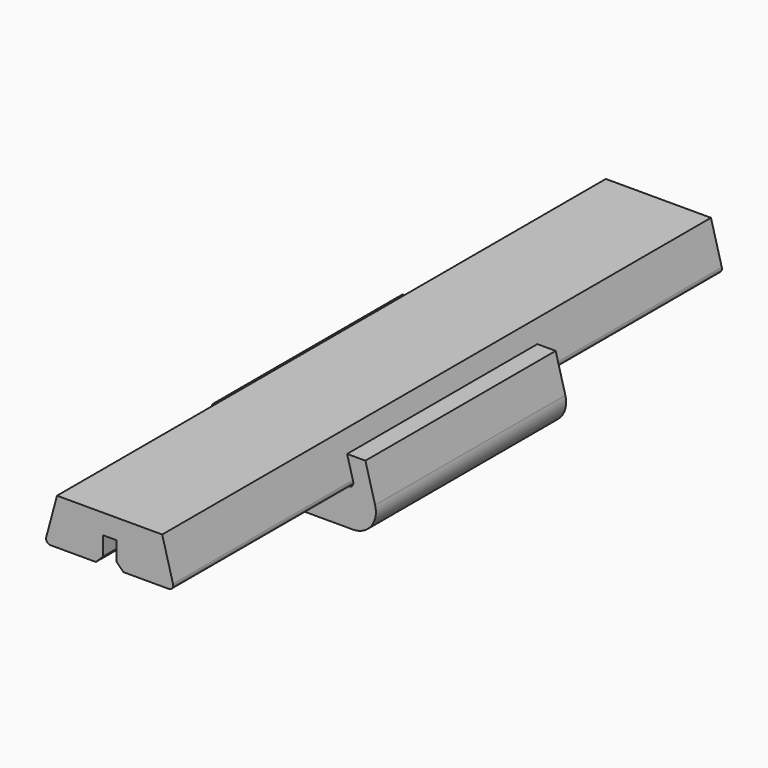
from build123d import *

# Parameters (mm, degrees)
F1_DEPTH  = 75
F2_DEPTH  = 26
F3_R      = 3.375
F3_R_2    = 1.65
F4_DEPTH  = 8.001
F5_DEPTH  = 6
F6_SIZE   = 1.5
F7_R      = 1
F7_2_R    = 1
F8_R      = 5
F9_R      = 3
F9_R_2    = 1.65
F10_DEPTH = 3
F11_DEPTH = 2.5


with BuildPart() as f1:
    # F0 (on Front) → F1 (new body, symmetric)
    with BuildSketch(Plane.XZ):
        Polygon((-1.5, 5.66), (0, 5.66), (1.5, 5.66), (1.5, 0), (14.2, 0), (11.5, 10), (0, 10), (-11.5, 10), (-14.2, 0), (-1.5, 0), align=None)
    extrude(amount=F1_DEPTH, both=True)

    # F6
    f6_edges = [f1.edges().sort_by_distance(p)[0] for p in [
        (-1.5, 0, 0),
        (1.5, 0, 0),
    ]]
    chamfer(f6_edges, length=F6_SIZE)

    # F7
    f7_edges = [f1.edges().sort_by_distance(p)[0] for p in [
        (14.2, 0, 0),
        (-14.2, 0, 0),
    ]]
    fillet(f7_edges, radius=F7_R)


with BuildPart() as f2:
    # F0 (on Front) → F2 (new body, symmetric)
    with BuildSketch(Plane.XZ):
        Polygon((-20.5558713294, -8.15), (0, -8.15), (20.5558713294, -8.15), (16.7353713294, 6), (12.7353713294, 6), (14.3958713294, -0.15), (2.0723198541, -0.15), (0, -0.15), (-2.0723198541, -0.15), (-14.3958713294, -0.15), (-12.7353713294, 6), (-16.7353713294, 6), align=None)
    extrude(amount=F2_DEPTH, both=True)

    # F3 (on face) → F4 (cut, through all)
    with BuildSketch(Plane.XY.offset(-0.15)):
        Circle(F3_R)
        with Locations((0, 20)):
            Circle(F3_R_2)
        with Locations((0, -20)):
            Circle(F3_R_2)
    extrude(amount=-F4_DEPTH, mode=Mode.SUBTRACT)

    # F3 (on face) → F5 (cut)
    with BuildSketch(Plane.XY.offset(-0.15)):
        Polygon((0, -6.45), (5.5858638544, -3.225), (5.5858638544, 3.225), (0, 6.45), (-5.5858638544, 3.225), (-5.5858638544, -3.225), align=None)
        Circle(F3_R, mode=Mode.SUBTRACT)
    extrude(amount=-F5_DEPTH, mode=Mode.SUBTRACT)

    # F7#2
    f7_2_edges = [f2.edges().sort_by_distance(p)[0] for p in [
        (-14.395871, 0, -0.15),
        (14.395871, 0, -0.15),
    ]]
    fillet(f7_2_edges, radius=F7_2_R)

    # F8
    f8_edges = [f2.edges().sort_by_distance(p)[0] for p in [
        (-20.555871, 0, -8.15),
        (20.555871, 0, -8.15),
    ]]
    fillet(f8_edges, radius=F8_R)

    # F9 (on face) → F10 (cut)
    with BuildSketch(Plane(origin=(0, 0, -8.15), x_dir=(1, 0, 0), z_dir=(0, 0, -1))):
        with Locations((0, 20)):
            Circle(F9_R)
        with Locations((0, 20)):
            Circle(F9_R_2, mode=Mode.SUBTRACT)
        with Locations((0, -20)):
            Circle(F9_R)
        with Locations((0, -20)):
            Circle(F9_R_2, mode=Mode.SUBTRACT)
    extrude(amount=-F10_DEPTH, mode=Mode.SUBTRACT)

    # F3 (on face) → F11 (cut)
    with BuildSketch(Plane.XY.offset(-0.15)):
        Polygon((2.7279800219, 21.575), (0, 23.15), (-2.7279800219, 21.575), (-2.7279800219, 18.425), (0, 16.85), (2.7279800219, 18.425), align=None)
        with Locations((0, 20)):
            Circle(F3_R_2, mode=Mode.SUBTRACT)
        Polygon((2.7279800219, -21.575), (2.7279800219, -18.425), (0, -16.85), (-2.7279800219, -18.425), (-2.7279800219, -21.575), (0, -23.15), align=None)
        with Locations((0, -20)):
            Circle(F3_R_2, mode=Mode.SUBTRACT)
    extrude(amount=-F11_DEPTH, mode=Mode.SUBTRACT)


solid = Compound([f1.part, f2.part])
